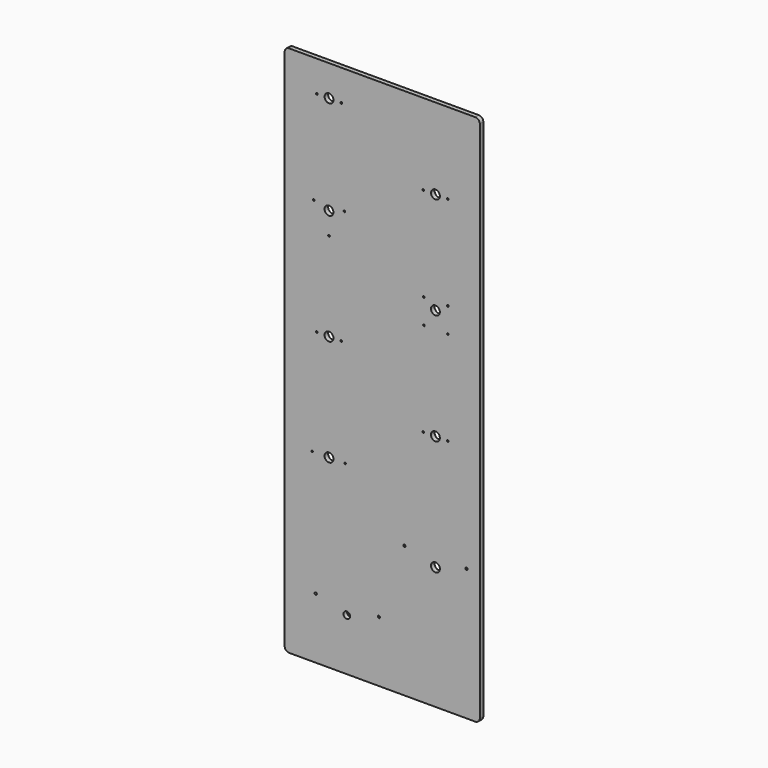
from build123d import *

# Parameters (mm, degrees)
F0_R     = 1.5621
F0_R_2   = 4.7625
F0_R_3   = 1.143
F0_R_4   = 6.35
F0_R_5   = 1.2192
F1_DEPTH = 6.35


with BuildPart() as f1:
    # F0 (on Front) → F1 (new body)
    with BuildSketch(Plane.XZ):
        with BuildLine():
            Line((-133.35, -381), (133.35, -381))
            ThreePointArc((133.35, -381), (137.840128, -379.140128), (139.7, -374.65))
            Line((139.7, -374.65), (139.7, 374.65))
            ThreePointArc((139.7, 374.65), (137.840128, 379.140128), (133.35, 381))
            Line((133.35, 381), (-133.35, 381))
            ThreePointArc((-133.35, 381), (-137.840128, 379.140128), (-139.7, 374.65))
            Line((-139.7, 374.65), (-139.7, -374.65))
            ThreePointArc((-139.7, -374.65), (-137.840128, -379.140128), (-133.35, -381))
        make_face()
        with Locations((-95.25, -293.927935)):
            Circle(F0_R, mode=Mode.SUBTRACT)
        with Locations((-50.8, -306.627935)):
            Circle(F0_R_2, mode=Mode.SUBTRACT)
        with Locations((-4.7879, -293.927935)):
            Circle(F0_R, mode=Mode.SUBTRACT)
        with Locations((-100.33, -116.127935)):
            Circle(F0_R_3, mode=Mode.SUBTRACT)
        with Locations((-76.2, -116.127935)):
            Circle(F0_R_4, mode=Mode.SUBTRACT)
        with Locations((-53.213, -116.127935)):
            Circle(F0_R_3, mode=Mode.SUBTRACT)
        with Locations((31.75, -192.327935)):
            Circle(F0_R, mode=Mode.SUBTRACT)
        with Locations((76.2, -205.027935)):
            Circle(F0_R_4, mode=Mode.SUBTRACT)
        with Locations((120.65, -192.327935)):
            Circle(F0_R, mode=Mode.SUBTRACT)
        with Locations((58.7375, -39.927935)):
            Circle(F0_R_5, mode=Mode.SUBTRACT)
        with Locations((76.2, -39.927935)):
            Circle(F0_R_4, mode=Mode.SUBTRACT)
        with Locations((93.6625, -39.927935)):
            Circle(F0_R_5, mode=Mode.SUBTRACT)
        with Locations((-93.685072, 36.300375)):
            Circle(F0_R_5, mode=Mode.SUBTRACT)
        with Locations((-76.222572, 36.300375)):
            Circle(F0_R_4, mode=Mode.SUBTRACT)
        with Locations((-76.2, 163.272065)):
            Circle(F0_R_5, mode=Mode.SUBTRACT)
        with Locations((-58.760072, 36.300375)):
            Circle(F0_R_5, mode=Mode.SUBTRACT)
        with Locations((-98.197045, 201.372065)):
            Circle(F0_R_5, mode=Mode.SUBTRACT)
        with Locations((-76.2, 195.022065)):
            Circle(F0_R_4, mode=Mode.SUBTRACT)
        with Locations((-93.614951, 336.658496)):
            Circle(F0_R_5, mode=Mode.SUBTRACT)
        with Locations((-76.152451, 336.658496)):
            Circle(F0_R_4, mode=Mode.SUBTRACT)
        with Locations((-54.202955, 201.372065)):
            Circle(F0_R_5, mode=Mode.SUBTRACT)
        with Locations((-58.689951, 336.658496)):
            Circle(F0_R_5, mode=Mode.SUBTRACT)
        with Locations((59.6392, 94.692065)):
            Circle(F0_R_5, mode=Mode.SUBTRACT)
        with Locations((59.6392, 130.252065)):
            Circle(F0_R_5, mode=Mode.SUBTRACT)
        with Locations((93.98, 94.692065)):
            Circle(F0_R_5, mode=Mode.SUBTRACT)
        with Locations((76.2, 118.822065)):
            Circle(F0_R_4, mode=Mode.SUBTRACT)
        with Locations((93.98, 130.252065)):
            Circle(F0_R_5, mode=Mode.SUBTRACT)
        with Locations((58.756615, 265.023881)):
            Circle(F0_R_5, mode=Mode.SUBTRACT)
        with Locations((76.219115, 265.023881)):
            Circle(F0_R_4, mode=Mode.SUBTRACT)
        with Locations((93.681615, 265.023881)):
            Circle(F0_R_5, mode=Mode.SUBTRACT)
    extrude(amount=F1_DEPTH)


solid = f1.part
